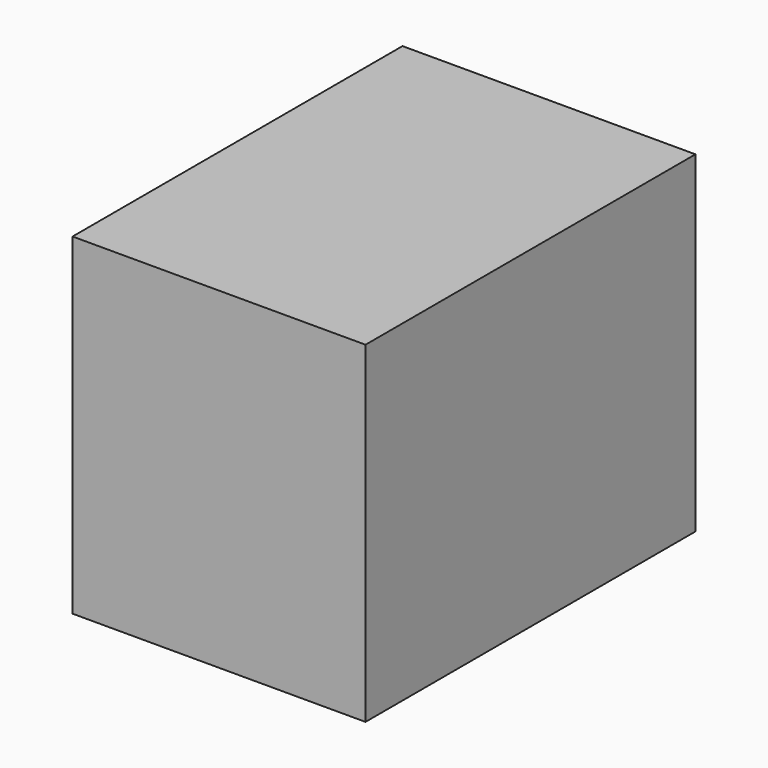
from build123d import *

# Parameters (mm, degrees)
SKETCH_W     = 54.7
SKETCH_H     = 77
PAD_DEPTH    = 62
SKETCH001_W  = 49.98
SKETCH001_H  = 71.98
POCKET_DEPTH = 61.3


with BuildPart() as part:
    # Sketch → Pad (new body)
    with BuildSketch(Plane.XY):
        with Locations((27.35, 38.5)):
            Rectangle(SKETCH_W, SKETCH_H)
    extrude(amount=PAD_DEPTH)

    # Sketch001 → Pocket (cut)
    with BuildSketch(Plane.XY):
        with Locations((27.5, 38.5)):
            Rectangle(SKETCH001_W, SKETCH001_H)
    extrude(amount=POCKET_DEPTH, mode=Mode.SUBTRACT)


solid = part.part
